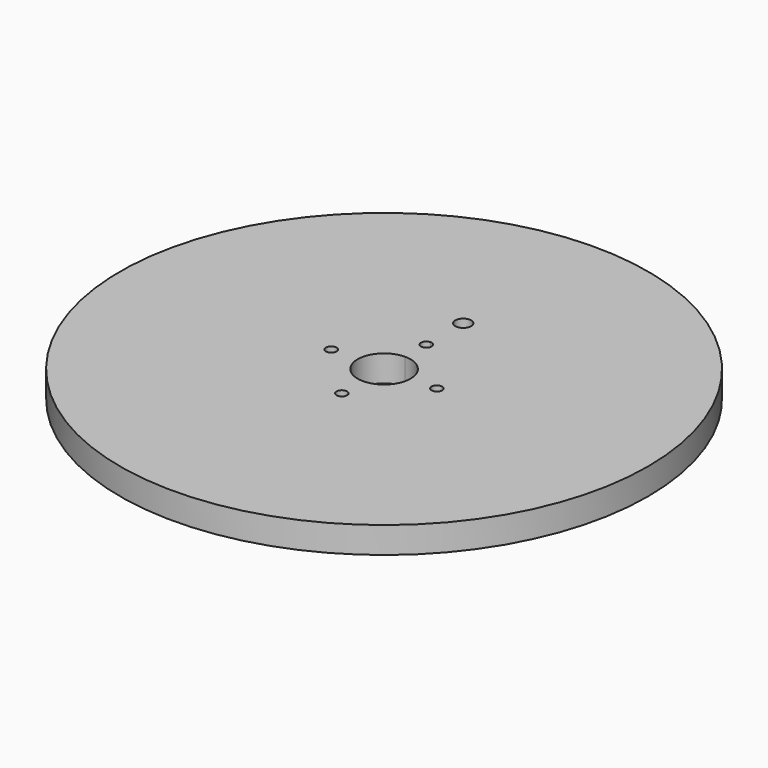
from build123d import *

# Parameters (mm, degrees)
F0_R     = 100
F0_R_2   = 2
F1_DEPTH = 10


with BuildPart() as f1:
    # F0 (on Top) → F1 (new body)
    with BuildSketch(Plane.XY):
        Circle(F0_R)
        with Locations((0, -20)):
            Circle(F0_R_2, mode=Mode.SUBTRACT)
        with Locations((-20, 0)):
            Circle(F0_R_2, mode=Mode.SUBTRACT)
        with BuildLine():
            ThreePointArc((0, 10), (7.0710678119, 7.0710678119), (10, 0))
            ThreePointArc((10, 0), (-7.0710678119, -7.0710678119), (0, 10))
        make_face(mode=Mode.SUBTRACT)
        with Locations((20, 0)):
            Circle(F0_R_2, mode=Mode.SUBTRACT)
        with BuildLine():
            ThreePointArc((2, 20), (1.4142135624, 18.5857864376), (0, 18))
            ThreePointArc((0, 18), (-2, 20), (0, 22))
            ThreePointArc((0, 22), (1.4142135624, 21.4142135624), (2, 20))
        make_face(mode=Mode.SUBTRACT)
        with BuildLine():
            ThreePointArc((3, 37.5), (2.1213203436, 35.3786796564), (0, 34.5))
            ThreePointArc((0, 34.5), (-2.1213203436, 39.6213203436), (3, 37.5))
        make_face(mode=Mode.SUBTRACT)
    extrude(amount=F1_DEPTH)


solid = f1.part
